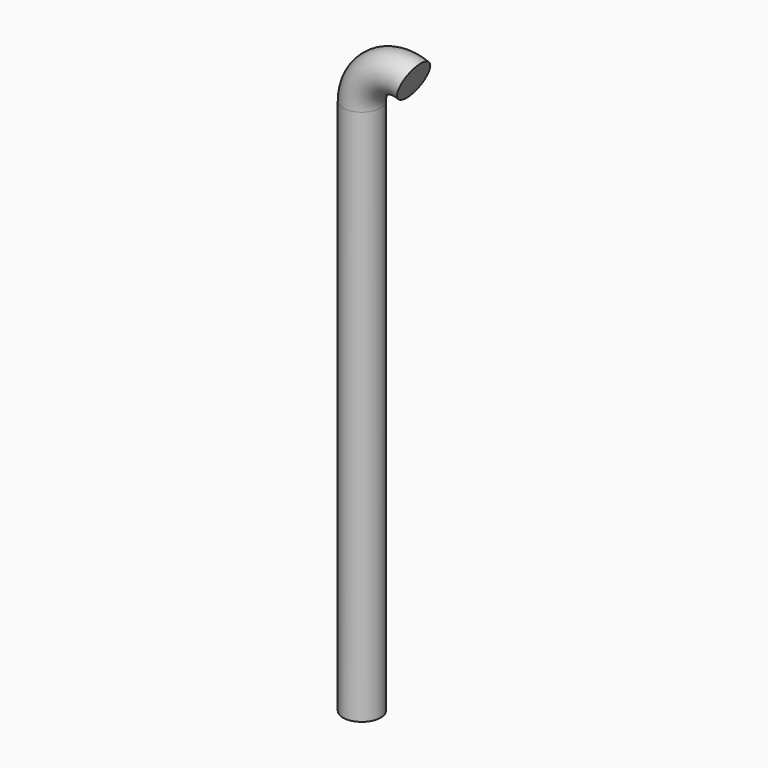
from build123d import *

# Parameters (mm, degrees)
F1_R = 2


with BuildPart() as f2:
    # F2: sweep along a path in F0
    with BuildLine(Plane.XZ) as f2_path:
        Line((0, 0), (0, 57))
        ThreePointArc((0, 57), (1.763932, 60.316625), (5.5, 60.708099))
    # F1 (on Top) → F2 (sweep)
    with BuildSketch(Plane.XY):
        Circle(F1_R)
    sweep(path=f2_path.line)


solid = f2.part
